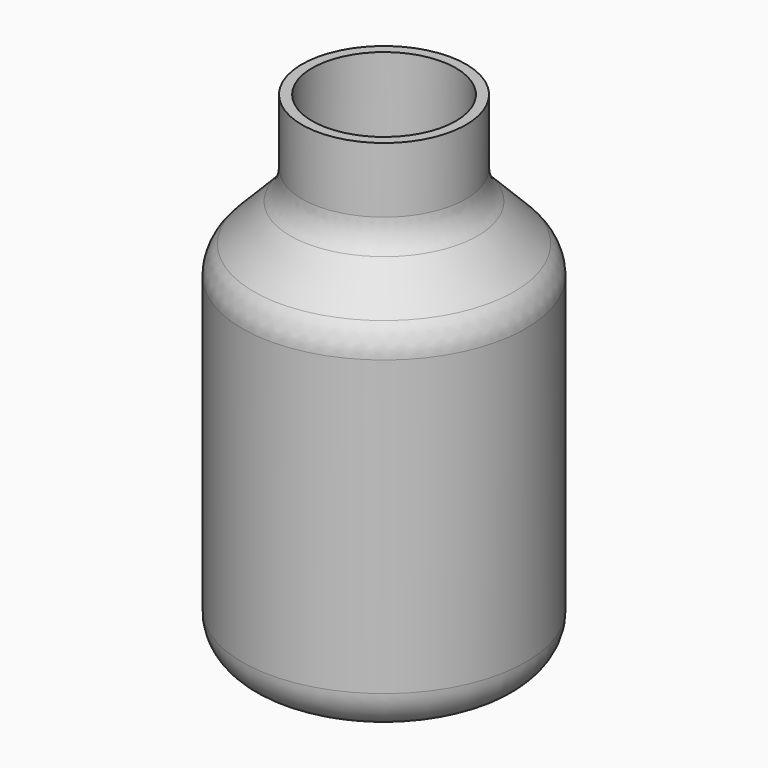
from build123d import *

# Parameters (mm, degrees)
F3_R     = 8.751672
F4_DEPTH = 25
F5_R     = 5


with BuildPart() as f2:
    # F0 (on Right) → F2 (revolve)
    with BuildSketch(Plane.YZ):
        Polygon((10, 60.288332), (0, 60.288332), (0, 57.74051), (6.906209, 57.74051), (6.906209, 50.288332), (15.09565, 42.280882), (15.09565, 2.780263), (0, 2.780263), (0, 0), (17.2795, 0), (17.2795, 42.826841), (10, 50.288332), align=None)
    revolve(axis=Axis((0, 0, 30.372418), (0, 0, 1)))

    # F3 (on face) → F4 (cut)
    with BuildSketch(Plane.XY.offset(60.288332)):
        Circle(F3_R)
    extrude(amount=-F4_DEPTH, mode=Mode.SUBTRACT)

    # F5
    f5_edges = [f2.edges().sort_by_distance(p)[0] for p in [
        (0, -10, 50.288332),
        (0, -17.2795, 42.826841),
        (0, -17.2795, 0),
    ]]
    fillet(f5_edges, radius=F5_R)


solid = f2.part
